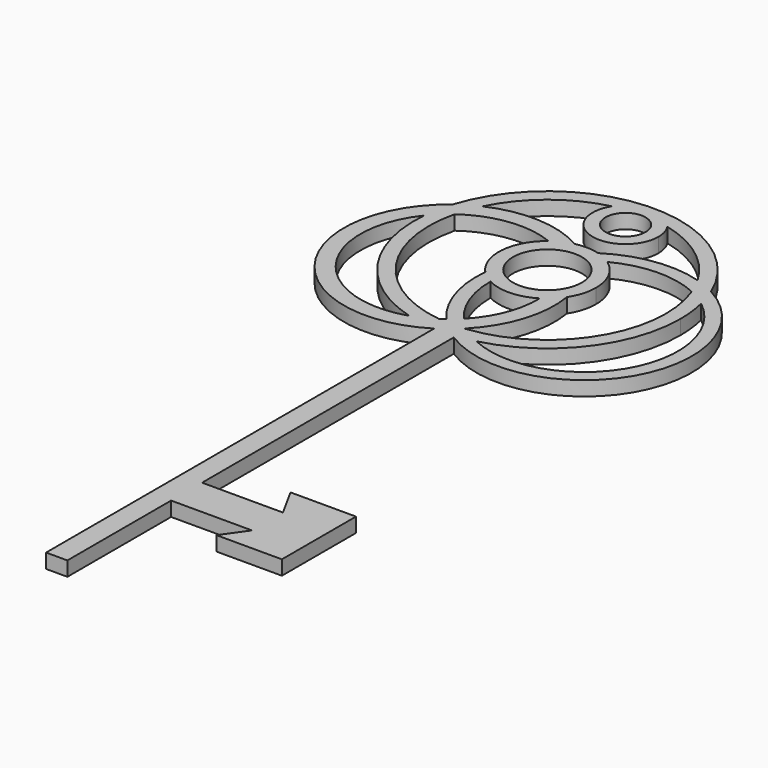
from build123d import *

# Parameters (mm, degrees)
F0_R     = 3.5153768018
F0_R_2   = 6.0636058291
F1_DEPTH = 2.54


with BuildPart() as f1:
    # F0 (on Top) → F1 (new body)
    with BuildSketch(Plane.XY):
        with BuildLine():
            ThreePointArc((5.6463585832, 29.9805230874), (18.407725664, 38.2646108125), (23.3619132145, 52.649833262))
            ThreePointArc((23.3619132145, 52.649833262), (23.2076230623, 55.3303594861), (22.7467905769, 57.9754794663))
            ThreePointArc((22.7467905769, 57.9754794663), (22.235600115, 59.8162184434), (21.5757197237, 61.6090356508))
            ThreePointArc((21.5757197237, 61.6090356508), (-1.0252043511, 75.9892408183), (-22.2781862608, 59.6827136086))
            ThreePointArc((-22.2781862608, 59.6827136086), (-22.9117571406, 57.2138636926), (-23.2725999439, 54.6906862436))
            ThreePointArc((-23.2725999439, 54.6906862436), (-19.1987651446, 39.3386948447), (-6.2505321915, 30.1396169955))
            ThreePointArc((-6.2505321915, 30.1396169955), (-3.7610611632, 29.5926563322), (-1.2268206757, 29.3201547371))
            ThreePointArc((-1.2268206757, 29.3201547371), (0.3267757613, 29.2902055542), (1.8789265228, 29.3636007594))
            ThreePointArc((1.8789265228, 29.3636007594), (3.7752651922, 29.5949777697), (5.6463585832, 29.9805230874))
        make_face()
        with BuildLine():
            ThreePointArc((-18.7149870564, 61.8056793901), (-13.0343920992, 68.9035984088), (-4.8720269007, 72.9067731276))
            ThreePointArc((-4.8720269007, 72.9067731276), (0, 75.5807920925), (4.8720269007, 72.9067731276))
            ThreePointArc((4.8720269007, 72.9067731276), (12.4642254724, 69.3448427623), (18.0369948255, 63.0780198977))
            ThreePointArc((18.0369948255, 63.0780198977), (18.8411325029, 61.5432007261), (19.51495587, 59.9468707591))
            ThreePointArc((19.51495587, 59.9468707591), (17.7799260376, 41.7891477891), (2.4169632695, 31.9559078877))
            ThreePointArc((2.4169632695, 31.9559078877), (2.2140541983, 31.9332161914), (2.0109324998, 31.9125140205))
            ThreePointArc((2.0109324998, 31.9125140205), (2.0327562529, 31.9344681612), (2.0545432214, 31.9564588069))
            Line((2.0545432214, 31.9564588069), (-2.4798661348, 31.9633516182))
            ThreePointArc((-2.4798661348, 31.9633516182), (-17.1218192261, 40.7787100956), (-20.2423136206, 57.5822766856))
            ThreePointArc((-20.2423136206, 57.5822766856), (-19.5927818752, 59.7352518969), (-18.7149870564, 61.8056793901))
        make_face(mode=Mode.SUBTRACT)
        with BuildLine():
            ThreePointArc((4.8720269007, 72.9067731276), (0, 75.5807920925), (-4.8720269007, 72.9067731276))
            ThreePointArc((-4.8720269007, 72.9067731276), (-1.6151312093, 64.2604439974), (5.7753935091, 69.8053985834))
            ThreePointArc((5.7753935091, 69.8053985834), (5.5449545861, 71.4205297927), (4.8720269007, 72.9067731276))
        make_face()
        with Locations((0, 69.8053985834)):
            Circle(F0_R, mode=Mode.SUBTRACT)
        with BuildLine():
            ThreePointArc((19.51495587, 59.9468707591), (18.8411325029, 61.5432007261), (18.0369948255, 63.0780198977))
            ThreePointArc((18.0369948255, 63.0780198977), (9.9513548111, 63.6942080387), (2.3504261795, 60.8687618428))
            ThreePointArc((2.3504261795, 60.8687618428), (3.7139939597, 60.3492838339), (4.9693481264, 59.6054690662))
            ThreePointArc((4.9693481264, 59.6054690662), (12.202516428, 61.4648652778), (19.51495587, 59.9468707591))
        make_face()
        with BuildLine():
            ThreePointArc((2.3504261795, 60.8687618428), (0.2447848705, 61.1947364568), (-1.8760643095, 60.9898376354))
            ThreePointArc((-1.8760643095, 60.9898376354), (-3.642362058, 60.3834280846), (-5.2348269781, 59.407930387))
            ThreePointArc((-5.2348269781, 59.407930387), (-8.5213747631, 53.3291434925), (-6.2393972156, 46.806442754))
            ThreePointArc((-6.2393972156, 46.806442754), (-5.1547022989, 45.8304246034), (-3.9198162489, 45.0531016742))
            ThreePointArc((-3.9198162489, 45.0531016742), (0.3292842458, 44.1077689841), (4.4930009474, 45.3774036316))
            ThreePointArc((4.4930009474, 45.3774036316), (5.9650234855, 46.5266163738), (7.1523634777, 47.9680614899))
            ThreePointArc((7.1523634777, 47.9680614899), (8.1919660637, 50.2070925361), (8.548408638, 52.649833262))
            ThreePointArc((8.548408638, 52.649833262), (7.6011613814, 56.561052496), (4.9693481264, 59.6054690662))
            ThreePointArc((4.9693481264, 59.6054690662), (3.7139939597, 60.3492838339), (2.3504261795, 60.8687618428))
        make_face()
        with Locations((0, 52.649833262)):
            Circle(F0_R_2, mode=Mode.SUBTRACT)
        with BuildLine():
            ThreePointArc((-1.8760643095, 60.9898376354), (-10.1971375987, 63.4284824133), (-18.7149870564, 61.8056793901))
            ThreePointArc((-18.7149870564, 61.8056793901), (-19.5927818752, 59.7352518969), (-20.2423136206, 57.5822766856))
            ThreePointArc((-20.2423136206, 57.5822766856), (-12.9746650162, 60.4358814105), (-5.2348269781, 59.407930387))
            ThreePointArc((-5.2348269781, 59.407930387), (-3.642362058, 60.3834280846), (-1.8760643095, 60.9898376354))
        make_face()
        with BuildLine():
            ThreePointArc((-23.2725999439, 54.6906862436), (-22.9117571406, 57.2138636926), (-22.2781862608, 59.6827136086))
            ThreePointArc((-22.2781862608, 59.6827136086), (-26.287602572, 34.4237695616), (-1.2268206757, 29.3201547371))
            ThreePointArc((-1.2268206757, 29.3201547371), (-3.7610611632, 29.5926563322), (-6.2505321915, 30.1396169955))
            ThreePointArc((-6.2505321915, 30.1396169955), (-23.9042491332, 36.0762272735), (-23.2725999439, 54.6906862436))
        make_face()
        with BuildLine():
            ThreePointArc((-1.6766925515, 32.5328885725), (-2.0737821313, 32.2417780279), (-2.4798661348, 31.9633516182))
            Line((-2.4798661348, 31.9633516182), (2.0545432214, 31.9564588069))
            ThreePointArc((2.0545432214, 31.9564588069), (2.1338680622, 32.0371517233), (2.212697621, 32.1183285538))
            ThreePointArc((2.212697621, 32.1183285538), (6.5613134045, 39.4576608959), (7.1523634777, 47.9680614899))
            ThreePointArc((7.1523634777, 47.9680614899), (5.9650234855, 46.5266163738), (4.4930009474, 45.3774036316))
            ThreePointArc((4.4930009474, 45.3774036316), (3.4411109654, 39.3153368621), (0.1258362832, 34.1322798652))
            ThreePointArc((0.1258362832, 34.1322798652), (-0.7444799741, 33.2977053551), (-1.6766925515, 32.5328885725))
        make_face()
        with BuildLine():
            ThreePointArc((21.5757197237, 61.6090356508), (22.235600115, 59.8162184434), (22.7467905769, 57.9754794663))
            ThreePointArc((22.7467905769, 57.9754794663), (26.6793019054, 36.3530553105), (5.6463585832, 29.9805230874))
            ThreePointArc((5.6463585832, 29.9805230874), (3.7752651922, 29.5949777697), (1.8789265228, 29.3636007594))
            ThreePointArc((1.8789265228, 29.3636007594), (2.1944539134, 29.1515344239), (2.5141786318, 28.9458507607))
            ThreePointArc((2.5141786318, 28.9458507607), (28.9306003552, 35.4233357491), (21.5757197237, 61.6090356508))
        make_face()
        with BuildLine():
            ThreePointArc((-6.2393972156, 46.806442754), (-5.4314211039, 39.1986841217), (-1.6766925515, 32.5328885725))
            ThreePointArc((-1.6766925515, 32.5328885725), (-0.7444799741, 33.2977053551), (0.1258362832, 34.1322798652))
            ThreePointArc((0.1258362832, 34.1322798652), (-2.8918968266, 39.2241244235), (-3.9198162489, 45.0531016742))
            ThreePointArc((-3.9198162489, 45.0531016742), (-5.1547022989, 45.8304246034), (-6.2393972156, 46.806442754))
        make_face()
        with BuildLine():
            ThreePointArc((2.5141786318, 28.9458507607), (2.1944539134, 29.1515344239), (1.8789265228, 29.3636007594))
            ThreePointArc((1.8789265228, 29.3636007594), (0.3267757613, 29.2902055542), (-1.2268206757, 29.3201547371))
            Line((-1.2268206757, 29.3201547371), (-1.2268206757, -55.9034757316))
            Line((-1.2268206757, -55.9034757316), (2.5141786318, -55.9034757316))
            Line((2.5141786318, -55.9034757316), (2.5141786318, -33.1279858947))
            Line((2.5141786318, -33.1279858947), (2.5141786318, -26.324916631))
            Line((2.5141786318, -26.324916631), (2.5141786318, -21.0007764399))
            Line((2.5141786318, -21.0007764399), (2.5141786318, -18.0429201573))
            Line((2.5141786318, -18.0429201573), (2.5141786318, 28.9458507607))
        make_face()
        Polygon((16.7118851095, -26.324916631), (2.5141786318, -26.324916631), (2.5141786318, -33.1279858947), (16.7118851095, -33.1279858947), (13.788478115, -37.2689850628), (25.2896659076, -37.2689850628), (25.2896659076, -21.0007764399), (13.788478115, -21.0007764399), align=None)
    extrude(amount=F1_DEPTH)


solid = f1.part
